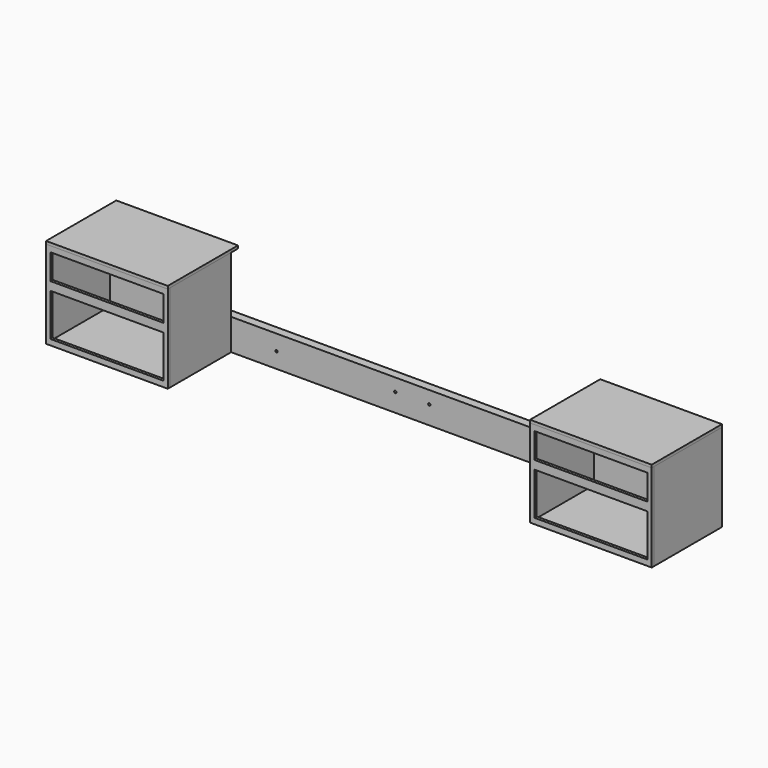
from build123d import *

# Parameters (mm, degrees)
F0_W      = 2692.4
F0_H      = 139.7
F1_DEPTH  = 38.1
F3_W      = 38.1
F3_H      = 139.7
F4_DEPTH  = 12.7
F6_W      = 12.7
F6_H      = 254
F6_H_2    = 139.7
F7_DEPTH  = 342.9
F10_DEPTH = 520.7
F12_W     = 520.7
F12_H     = 12.7
F13_DEPTH = 342.9
F15_W     = 533.4
F15_H     = 393.7
F15_W_2   = 508
F15_H_2   = 190.5
F15_H_3   = 114.3
F15_W_3   = 12.7
F16_DEPTH = 12.7
F18_W     = 12.7
F18_H     = 381
F19_DEPTH = 12.7
F22_D     = 10.0838
F22_DEPTH = 50.8
F22_TIP   = 3.0294791551


with BuildPart() as f1:
    # F0 (on Front) → F1 (new body)
    with BuildSketch(Plane.XZ):
        with Locations((1346.2, 69.85)):
            Rectangle(F0_W, F0_H)
    extrude(amount=F1_DEPTH)

    # F22
    with Locations(Plane(origin=(0, 0, 0), x_dir=(-1, 0, 0), z_dir=(0, 1, 0))):
        with Locations((-1955.8, 69.85), (-1422.4, 82.55), (-1270, 82.55), (-736.6, 69.85)):
            Hole(F22_D / 2, depth=F22_DEPTH)
            with Locations((0, 0, -(F22_DEPTH + F22_TIP / 2))):  # 118° drill point
                Cone(0, F22_D / 2, F22_TIP, mode=Mode.SUBTRACT)


with BuildPart() as f4:
    # F3 (on face) → F4 (new body)
    with BuildSketch(Plane(origin=(0, 0, 0), x_dir=(0, -1, 0), z_dir=(-1, 0, 0))):
        Polygon((38.1, 139.7), (38.1, 0), (381, 0), (381, 393.7), (0, 393.7), (0, 139.7), align=None)
        with Locations((19.05, 69.85)):
            Rectangle(F3_W, F3_H)
    extrude(amount=F4_DEPTH)


with BuildPart() as f5_1:
    # F5: copy of F4
    add(f4.part.moved(Location((2705.1, 0, 0))))


with BuildPart() as f7:
    # F6 (on face) → F7 (new body, through all)
    with BuildSketch(Plane.XZ.offset(38.1)):
        with Locations((527.05, 266.7)):
            Rectangle(F6_W, F6_H)
        with Locations((527.05, 69.85)):
            Rectangle(F6_W, F6_H_2)
    extrude(amount=F7_DEPTH)


with BuildPart() as f8_1:
    # F8: copy of F7
    add(f7.part.moved(Location((1638.3, 0, 0))))


with BuildPart() as f10:
    # F9 (on face) → F10 (new body, through all)
    with BuildSketch(Plane.YZ):
        Polygon((-50.8, 12.7), (-38.1, 12.7), (-38.1, 139.7), (-38.1, 393.7), (-50.8, 393.7), align=None)
    extrude(amount=F10_DEPTH)


with BuildPart() as f11_1:
    # F11: copy of F10
    add(f10.part.moved(Location((2171.7, 0, 0))))


with BuildPart() as f13:
    # F12 (on face) → F13 (new body, through all)
    with BuildSketch(Plane.XZ.offset(38.1)):
        with Locations((260.35, 6.35)):
            Rectangle(F12_W, F12_H)
    extrude(amount=F13_DEPTH)


with BuildPart() as f14_1:
    # F14: copy of F13
    add(f13.part.moved(Location((2171.7, 0, 0))))


with BuildPart() as f16:
    # F15 (on face) → F16 (new body)
    with BuildSketch(Plane.XZ.offset(381)):
        with Locations((2438.4, 196.85)):
            Rectangle(F15_W, F15_H)
        with Locations((2432.05, 120.65)):
            Rectangle(F15_W_2, F15_H_2, mode=Mode.SUBTRACT)
        with Locations((2432.05, 311.15)):
            Rectangle(F15_W_2, F15_H_3, mode=Mode.SUBTRACT)
        with Locations((2165.35, 196.85)):
            Rectangle(F15_W_3, F15_H)
    extrude(amount=F16_DEPTH)


with BuildPart() as f17_1:
    # F17: copy of F16
    add(f16.part.moved(Location((-2171.7, 0, 0))))


with BuildPart() as f19:
    # F18 (on face) → F19 (new body)
    with BuildSketch(Plane.XY.offset(393.7)):
        Polygon((-12.7, -381), (-12.7, -393.7), (533.4, -393.7), (533.4, 0), (0, 0), (0, -381), align=None)
        with Locations((-6.35, -190.5)):
            Rectangle(F18_W, F18_H)
    extrude(amount=F19_DEPTH)


with BuildPart() as f20_1:
    # F20: copy of F19
    add(f19.part.moved(Location((2171.7, 0, 0))))


solid = Compound([f1.part, f4.part, f5_1.part, f7.part, f8_1.part, f10.part, f11_1.part, f13.part, f14_1.part, f16.part, f17_1.part, f19.part, f20_1.part])
